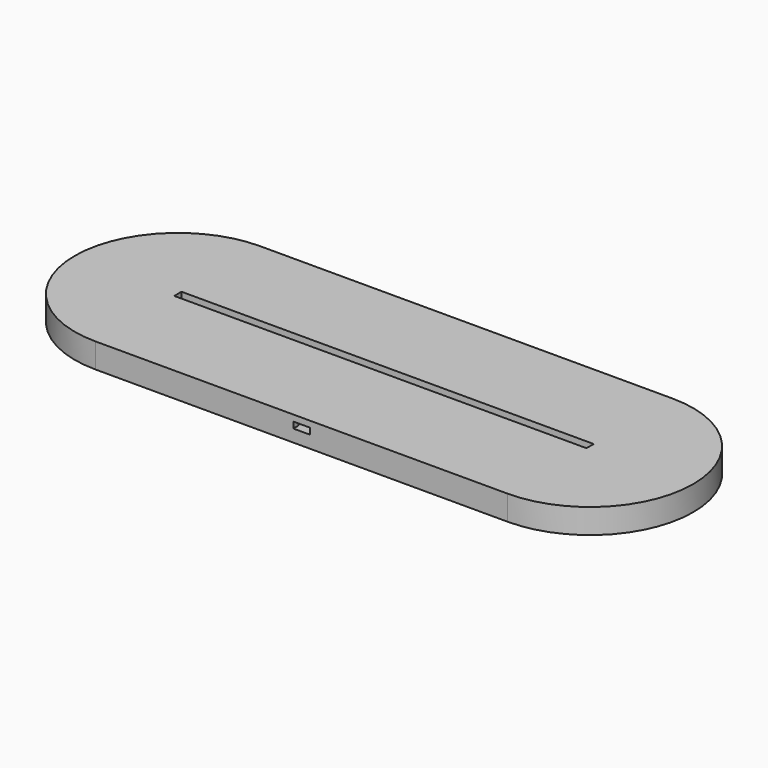
from build123d import *

# Parameters (mm, degrees)
PAD_DEPTH       = 3
PAD001_DEPTH    = 3
SKETCH002_W     = 209.08447
SKETCH002_H     = 4.18
PAD002_DEPTH    = 3
SKETCH003_W     = 26.3
SKETCH003_H     = 34.2
POCKET_DEPTH    = 3
SKETCH004_W     = 18
SKETCH004_H     = 25
POCKET001_DEPTH = 3
SKETCH005_W     = 14
SKETCH005_H     = 5
POCKET002_DEPTH = 6
SKETCH006_W     = 14
SKETCH006_H     = 3
POCKET003_DEPTH = 3
SKETCH007_W     = 8
SKETCH007_H     = 3
POCKET004_DEPTH = 3
SKETCH008_W     = 200
SKETCH008_H     = 4.4
PAD003_DEPTH    = 3


with BuildPart() as part:
    # Sketch → Pad (new body)
    with BuildSketch(Plane.XY):
        with BuildLine():
            ThreePointArc((-100, 50), (-150, 0), (-100, -50))
            Line((-100, -50), (100, -50))
            ThreePointArc((100, -50), (150, 0), (100, 50))
            Line((-100, 50), (100, 50))
        make_face()
    extrude(amount=PAD_DEPTH)

    # Sketch001 (on Face6 of Pad) → Pad001 (join)
    with BuildSketch(Plane.XY.offset(3)):
        with BuildLine():
            ThreePointArc((-100, 50), (-150, 0), (-100, -50))
            Line((-100, -50), (100, -50))
            ThreePointArc((100, -50), (150, 0), (100, 50))
            Line((-100, 50), (100, 50))
        make_face()
        with BuildLine():
            ThreePointArc((-100, 5), (-105, 0), (-100, -5))
            Line((-100, -5), (100, -5))
            ThreePointArc((100, -5), (105, 0), (100, 5))
            Line((-100, 5), (100, 5))
        make_face(mode=Mode.SUBTRACT)
    extrude(amount=PAD001_DEPTH)

    # Sketch002 (on Face9 of Pad001) → Pad002 (join)
    with BuildSketch(Plane.XY.offset(6)):
        with BuildLine():
            ThreePointArc((-100, 50), (-150, 0), (-100, -50))
            Line((-100, -50), (100, -50))
            ThreePointArc((100, -50), (150, 0), (100, 50))
            Line((-100, 50), (100, 50))
        make_face()
        Rectangle(SKETCH002_W, SKETCH002_H, mode=Mode.SUBTRACT)
    extrude(amount=PAD002_DEPTH)

    # Sketch003 (on Face13 of Pad002) → Pocket (cut)
    with BuildSketch(Plane.XY.offset(9)):
        with Locations((0, -29.9)):
            Rectangle(SKETCH003_W, SKETCH003_H)
    extrude(amount=-POCKET_DEPTH, mode=Mode.SUBTRACT)

    # Sketch004 (on Face27 of Pocket) → Pocket001 (cut)
    with BuildSketch(Plane.XY.offset(6)):
        with Locations((0, -25.3)):
            Rectangle(SKETCH004_W, SKETCH004_H)
    extrude(amount=-POCKET001_DEPTH, mode=Mode.SUBTRACT)

    # Sketch005 (on Face13 of Pocket001) → Pocket002 (cut)
    with BuildSketch(Plane.XY.offset(9)):
        with Locations((0, -10.3)):
            Rectangle(SKETCH005_W, SKETCH005_H)
    extrude(amount=-POCKET002_DEPTH, mode=Mode.SUBTRACT)

    # Sketch006 (on Face23 of Pocket002) → Pocket003 (cut)
    with BuildSketch(Plane.XZ.offset(7.8)):
        with Locations((0, 4.5)):
            Rectangle(SKETCH006_W, SKETCH006_H)
    extrude(amount=-POCKET003_DEPTH, mode=Mode.SUBTRACT)

    # Sketch007 (on Face13 of Pocket003) → Pocket004 (cut)
    with BuildSketch(Plane.XY.offset(9)):
        with Locations((0, -48.5)):
            Rectangle(SKETCH007_W, SKETCH007_H)
    extrude(amount=-POCKET004_DEPTH, mode=Mode.SUBTRACT)

    # Sketch008 (on Face15 of Pocket004) → Pad003 (join)
    with BuildSketch(Plane.XY.offset(9)):
        with BuildLine():
            ThreePointArc((-100, 50), (-150, 0), (-100, -50))
            Line((-100, -50), (100, -50))
            ThreePointArc((100, -50), (150, 0), (100, 50))
            Line((-100, 50), (100, 50))
        make_face()
        Rectangle(SKETCH008_W, SKETCH008_H, mode=Mode.SUBTRACT)
    extrude(amount=PAD003_DEPTH)


solid = part.part
